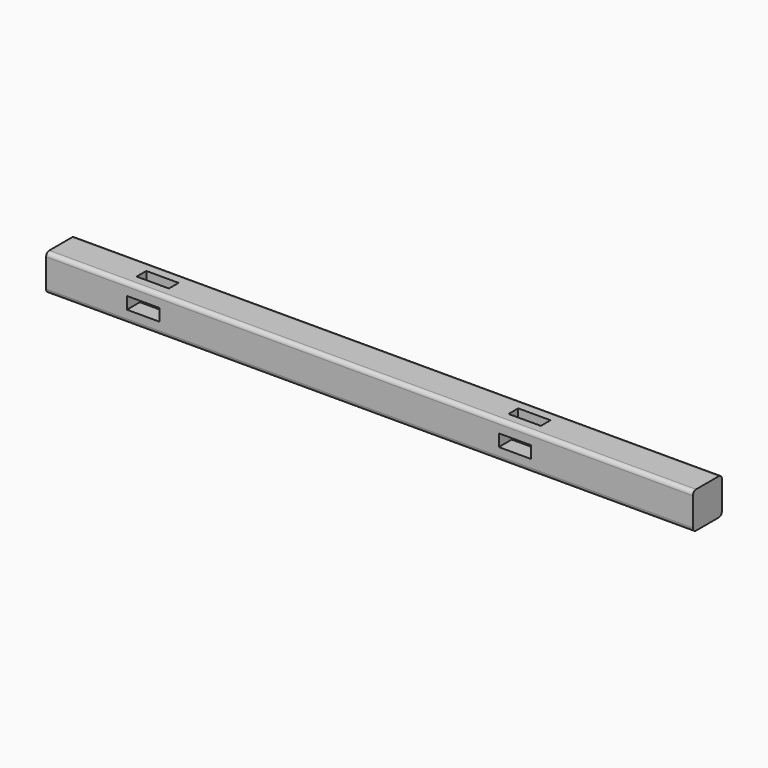
from build123d import *

# Parameters (mm, degrees)
F0_W      = 45
F0_H      = 45
F1_DEPTH  = 400
F2_R      = 5
F3_W      = 40
F3_H      = 15
F4_DEPTH  = 20
F5_W      = 40
F5_H      = 15
F6_DEPTH  = 20
F7_W      = 40
F7_H      = 15
F8_DEPTH  = 20
F9_W      = 40
F9_H      = 15
F10_DEPTH = 20


with BuildPart() as f1:
    # F0 (on Right) → F1 (new body, symmetric)
    with BuildSketch(Plane.YZ):
        Rectangle(F0_W, F0_H)
    extrude(amount=F1_DEPTH, both=True)

    # F2
    f2_edges = [f1.edges().sort_by_distance(p)[0] for p in [
        (0, -22.5, 22.5),
        (0, 22.5, 22.5),
        (0, -22.5, -22.5),
        (0, 22.5, -22.5),
    ]]
    fillet(f2_edges, radius=F2_R)

    # F3 (on face) → F4 (cut)
    with BuildSketch(Plane.XZ.offset(22.5)):
        with Locations((-280, 0)):
            Rectangle(F3_W, F3_H)
    extrude(amount=-F4_DEPTH, mode=Mode.SUBTRACT)

    # F5 (on face) → F6 (cut)
    with BuildSketch(Plane.XY.offset(22.5)):
        with Locations((-280, 0)):
            Rectangle(F5_W, F5_H)
    extrude(amount=-F6_DEPTH, mode=Mode.SUBTRACT)

    # F7 (on face) → F8 (cut)
    with BuildSketch(Plane.XY.offset(22.5)):
        with Locations((180, 0)):
            Rectangle(F7_W, F7_H)
    extrude(amount=-F8_DEPTH, mode=Mode.SUBTRACT)

    # F9 (on face) → F10 (cut)
    with BuildSketch(Plane.XZ.offset(22.5)):
        with Locations((180, 0)):
            Rectangle(F9_W, F9_H)
    extrude(amount=-F10_DEPTH, mode=Mode.SUBTRACT)


solid = f1.part
